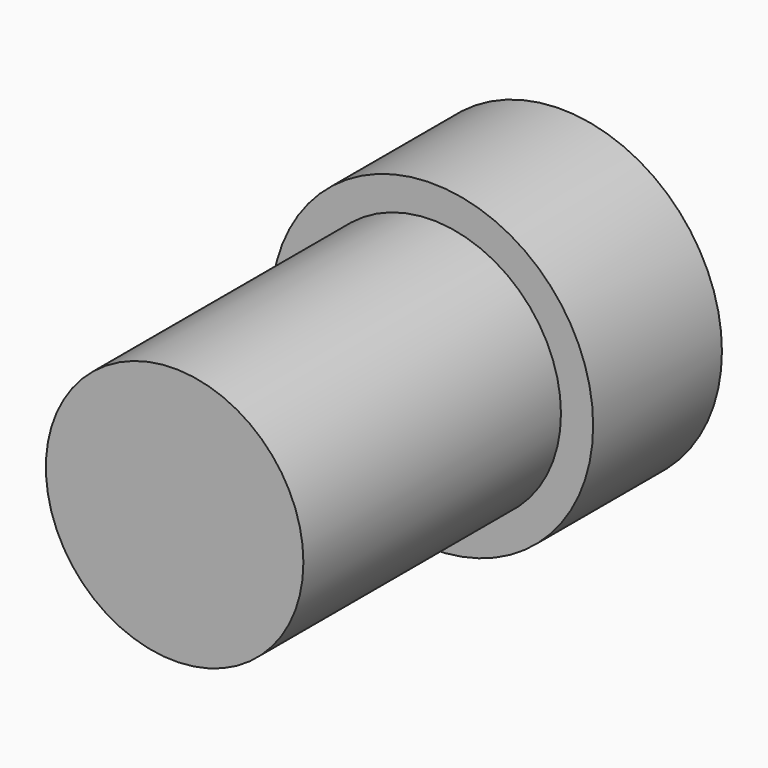
from build123d import *

# Parameters (mm, degrees)
F0_R          = 3.175
F1_DEPTH      = 6.35
F2_R          = 2.54
F3_DEPTH      = 6.35
F3_DEPTH_BACK = 12.7
F5_DEPTH      = 12.7
F6_W          = 10.36966
F6_H          = 6.35
F7_DEPTH      = 25.4


with BuildPart() as f1:
    # F0 (on Front) → F1 (new body)
    with BuildSketch(Plane.XZ):
        Circle(F0_R)
    extrude(amount=F1_DEPTH)

    # F2 (on face) → F3 (join, two sides)
    with BuildSketch(Plane.XZ.offset(6.35)) as f3_sk:
        Circle(F2_R)
    extrude(amount=F3_DEPTH)
    extrude(f3_sk.sketch, amount=-F3_DEPTH_BACK)

    # F4 (on Right) → F5 (cut)
    with BuildSketch(Plane.YZ):
        Polygon((8.097555, 3.648834), (-3.175, 3.868401), (-3.175, 0), (-3.175, -4.03599), (8.097555, -4.03599), align=None)
    extrude(amount=-F5_DEPTH, mode=Mode.SUBTRACT)

    # F6 (on face) → F7 (cut)
    with BuildSketch(Plane(origin=(0, 0, 0), x_dir=(0, -1, 0), z_dir=(-1, 0, 0))):
        with Locations((-2.00983, 0)):
            Rectangle(F6_W, F6_H)
    extrude(amount=-F7_DEPTH, mode=Mode.SUBTRACT)


solid = f1.part
